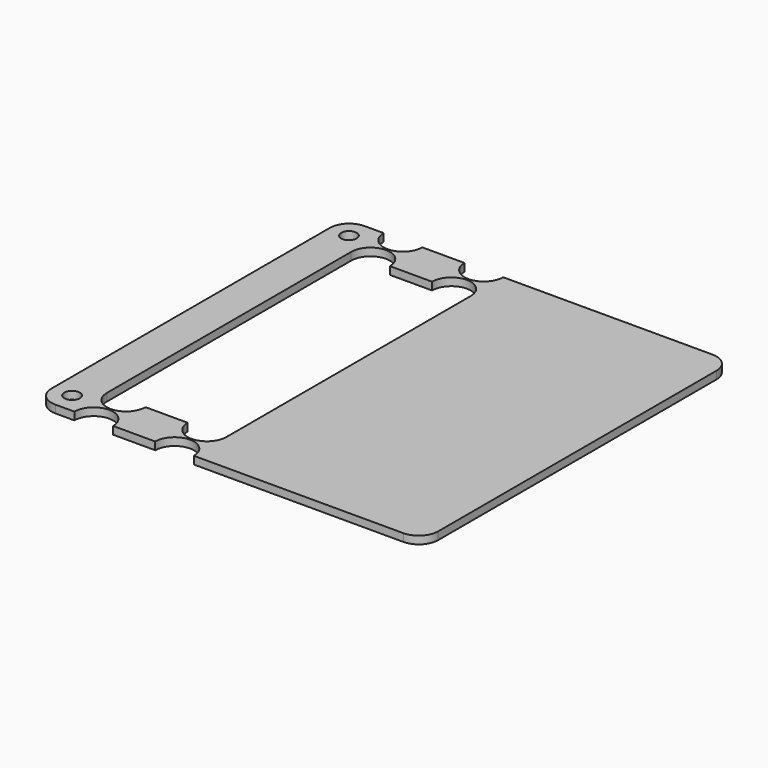
from build123d import *

# Parameters (mm, degrees)
F0_R     = 2
F1_DEPTH = 2
F2_R     = 5


with BuildPart() as f1:
    # F0 (on Top) → F1 (new body)
    with BuildSketch(Plane.XY):
        with BuildLine():
            Line((50, -50), (50, 50))
            Line((50, 50), (-9.166112, 50))
            ThreePointArc((-9.166112, 50), (-14.166112, 45), (-19.166112, 50))
            Line((-19.166112, 50), (-30.080928, 50))
            ThreePointArc((-30.080928, 50), (-35.080928, 45), (-40.080928, 50))
            Line((-40.080928, 50), (-50, 50))
            Line((-50, 50), (-50, -50))
            Line((-50, -50), (-40.080928, -50))
            ThreePointArc((-40.080928, -50), (-35.080928, -45), (-30.080928, -50))
            Line((-30.080928, -50), (-19.166112, -50))
            ThreePointArc((-19.166112, -50), (-14.166112, -45), (-9.166112, -50))
            Line((-9.166112, -50), (50, -50))
        make_face()
        with Locations((-44.863626, -44.75)):
            Circle(F0_R, mode=Mode.SUBTRACT)
        with BuildLine():
            ThreePointArc((-40.080928, 39.5), (-35.080928, 44.5), (-30.080928, 39.5))
            Line((-30.080928, 39.5), (-19.166112, 39.5))
            ThreePointArc((-19.166112, 39.5), (-14.166112, 44.5), (-9.166112, 39.5))
            Line((-9.166112, 39.5), (-9.166112, -39.5))
            ThreePointArc((-9.166112, -39.5), (-14.166112, -44.5), (-19.166112, -39.5))
            Line((-19.166112, -39.5), (-30.080928, -39.5))
            ThreePointArc((-30.080928, -39.5), (-35.080928, -44.5), (-40.080928, -39.5))
            Line((-40.080928, -39.5), (-40.080928, 39.5))
        make_face(mode=Mode.SUBTRACT)
        with Locations((-44.863626, 44.75)):
            Circle(F0_R, mode=Mode.SUBTRACT)
    extrude(amount=F1_DEPTH)

    # F2
    f2_edges = [f1.edges().sort_by_distance(p)[0] for p in [
        (50, -50, 1),
        (50, 50, 1),
        (-50, -50, 1),
        (-50, 50, 1),
    ]]
    fillet(f2_edges, radius=F2_R)


solid = f1.part
